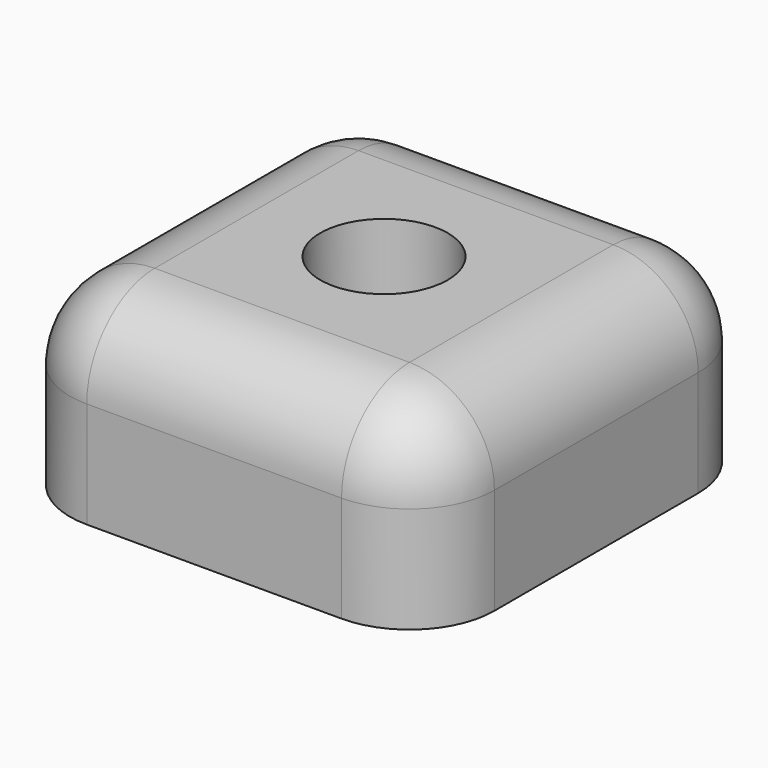
from build123d import *

# Parameters (mm, degrees)
F0_W     = 25.4
F0_H     = 25.4
F1_DEPTH = 11.43
F2_R     = 3.81
F3_DEPTH = 6.35
F4_R     = 5.08


with BuildPart() as f1:
    # F0 (on Top) → F1 (new body)
    with BuildSketch(Plane.XY):
        with Locations((12.7, 12.7)):
            Rectangle(F0_W, F0_H)
    extrude(amount=F1_DEPTH)

    # F2 (on face) → F3 (cut)
    with BuildSketch(Plane.XY.offset(11.43)):
        with Locations((12.7, 12.7)):
            Circle(F2_R)
    extrude(amount=-F3_DEPTH, mode=Mode.SUBTRACT)

    # F4
    f4_edges = [f1.edges().sort_by_distance(p)[0] for p in [
        (25.4, 12.7, 11.43),
        (12.7, 25.4, 11.43),
        (0, 12.7, 11.43),
        (12.7, 0, 11.43),
        (25.4, 25.4, 5.715),
        (25.4, 0, 5.715),
        (0, 25.4, 5.715),
        (0, 0, 5.715),
    ]]
    fillet(f4_edges, radius=F4_R)


solid = f1.part
